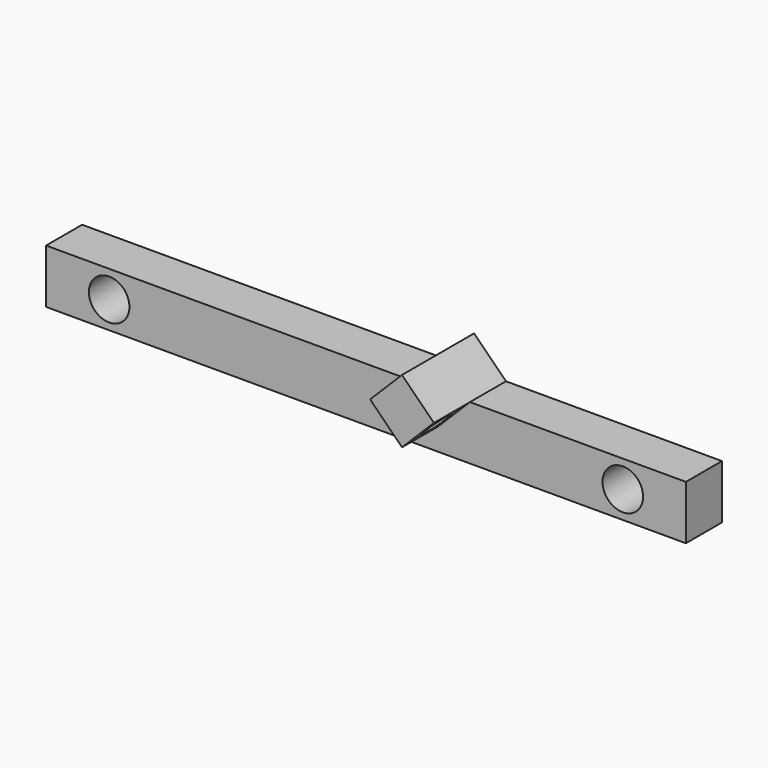
from build123d import *

# Parameters (mm, degrees)
F0_R     = 2.25
F1_DEPTH = 5
F3_DEPTH = 5
F4_R     = 1.575
F5_DEPTH = 35.7601449816


with BuildPart() as f1:
    # F0 (on Front) → F1 (new body)
    with BuildSketch(Plane.XZ):
        Polygon((35.5, -3), (35.5, 3), (11.5355339059, 3), (8, -0.5355339059), (4.4644660941, 3), (-35.5, 3), (-35.5, -3), align=None)
        with Locations((-28.5, 0)):
            Circle(F0_R, mode=Mode.SUBTRACT)
        with Locations((28.5, 0)):
            Circle(F0_R, mode=Mode.SUBTRACT)
        Polygon((8, -0.5355339059), (11.5355339059, 3), (4.4644660941, 3), align=None)
        Polygon((4.4644660941, 3), (11.5355339059, 3), (8, 6.5355339059), align=None)
    extrude(amount=F1_DEPTH)

    # F2 (on face) → F3 (join)
    with BuildSketch(Plane.XZ.offset(5)):
        Polygon((11.5355339059, 3), (8, 6.5355339059), (4.4644660941, 3), (8, -0.5355339059), align=None)
    extrude(amount=F3_DEPTH)

    # F4 (on face) → F5 (cut, through all)
    with BuildSketch(Plane(origin=(4.267766953, 0, -4.267766953), x_dir=(0, 1, 0), z_dir=(0.7071067812, 0, -0.7071067812))):
        with Locations((-7.425, 7.7781745931)):
            Circle(F4_R)
    extrude(amount=-F5_DEPTH, mode=Mode.SUBTRACT)


solid = f1.part
